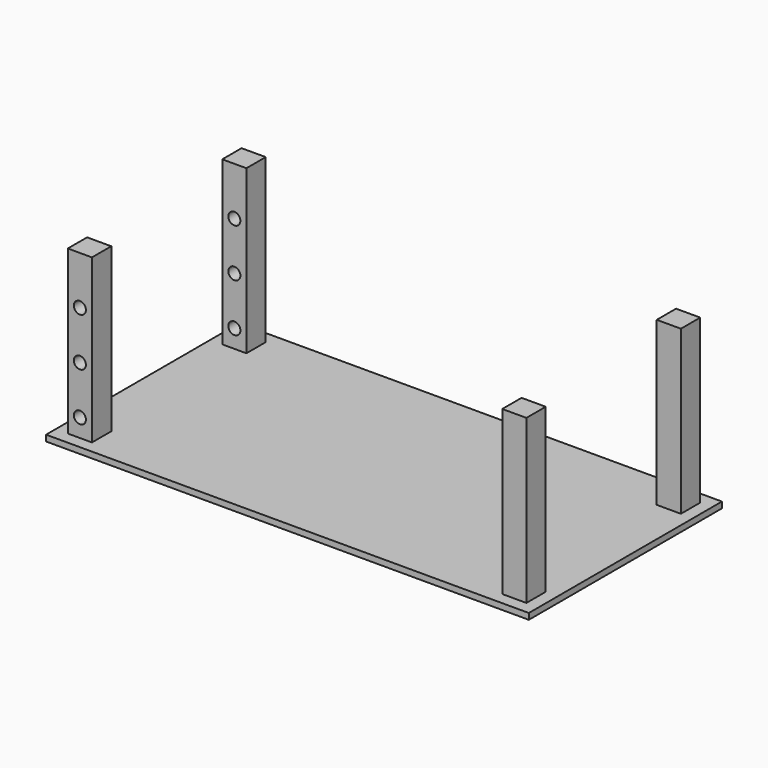
from build123d import *

# Parameters (mm, degrees)
F0_W     = 2000
F0_H     = 1000
F1_DEPTH = 25
F2_W     = 100
F2_H     = 100
F3_DEPTH = 700
F5_D     = 50
F5_DEPTH = 500.001
F6_D     = 50


with BuildPart() as f1:
    # F0 (on Top) → F1 (new body)
    with BuildSketch(Plane.XY):
        Rectangle(F0_W, F0_H)
    extrude(amount=F1_DEPTH)

    # F2 (on Top) → F3 (join)
    with BuildSketch(Plane.XY):
        with Locations((-900, 400)):
            Rectangle(F2_W, F2_H)
        with Locations((-900, -400)):
            Rectangle(F2_W, F2_H)
        with Locations((900, 400)):
            Rectangle(F2_W, F2_H)
        with Locations((900, -400)):
            Rectangle(F2_W, F2_H)
    extrude(amount=F3_DEPTH)

    # F5 (through all, one way)
    with BuildSketch(Plane(origin=(0, 0, 0), x_dir=(1, 0, 0), z_dir=(0, 1, 0))):
        with Locations((-900, -500), (-900, -300), (-900, -100)):
            Circle(F5_D / 2)
    extrude(amount=-F5_DEPTH, mode=Mode.SUBTRACT)

    # F6 (through all)
    with Locations(Plane.XZ):
        with Locations((-900, 300), (-900, 500), (-900, 100)):
            Hole(F6_D / 2)


solid = f1.part
